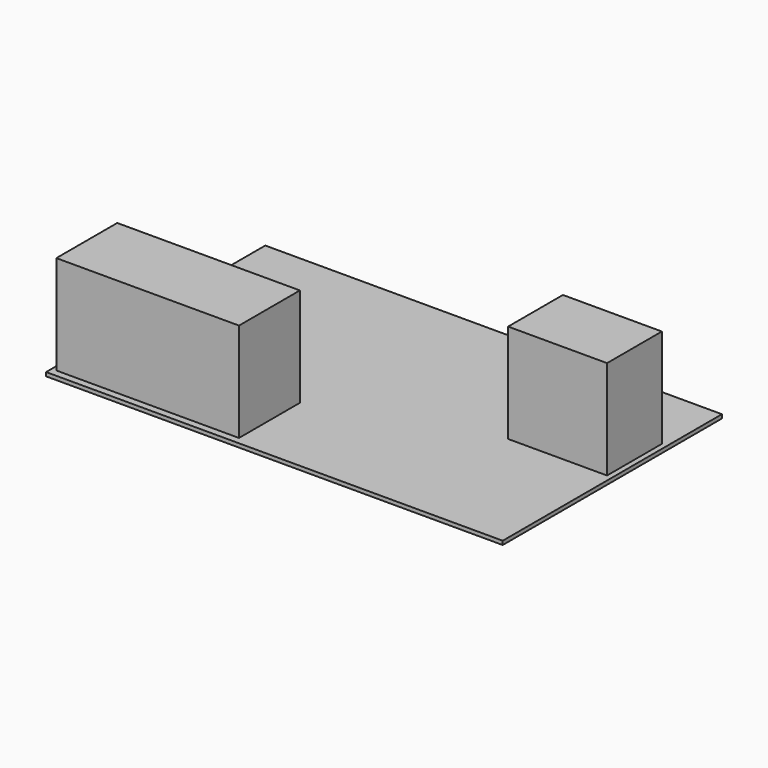
from build123d import *

# Parameters (mm, degrees)
F0_W     = 3048
F0_H     = 1828.8
F2_DEPTH = 25.4
F1_W     = 1219.2
F1_H     = 508
F1_W_2   = 660.4
F1_H_2   = 457.2
F3_DEPTH = 660.4


with BuildPart() as f2:
    # F0 (on Top) → F2 (new body)
    with BuildSketch(Plane.XY):
        Rectangle(F0_W, F0_H)
    extrude(amount=-F2_DEPTH)


with BuildPart() as f3:
    # F1 (on Top) → F3 (new body)
    with BuildSketch(Plane.XY):
        with Locations((-883.524127, -613.40464)):
            Rectangle(F1_W, F1_H)
        with Locations((1158.571823, 228.6)):
            Rectangle(F1_W_2, F1_H_2)
    extrude(amount=F3_DEPTH)


solid = Compound([f2.part, f3.part])
